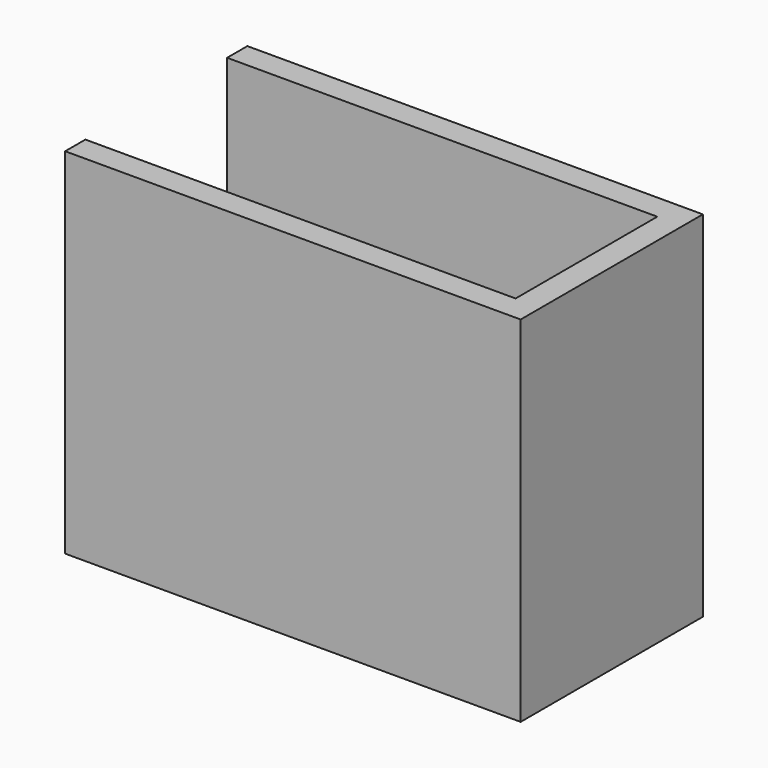
from build123d import *

# Parameters (mm, degrees)
F0_W     = 18
F0_H     = 9
F1_DEPTH = 13
F2_W     = 17
F2_H     = 7
F3_DEPTH = 4
F4_W     = 4
F4_H     = 4
F5_DEPTH = 6
F4_W_2   = 2
F4_H_2   = 7
F6_DEPTH = 9
F8_DEPTH = 1


with BuildPart() as f1:
    # F0 (on Top) → F1 (new body)
    with BuildSketch(Plane.XY):
        Rectangle(F0_W, F0_H)
    extrude(amount=F1_DEPTH)

    # F2 (on face) → F3 (cut)
    with BuildSketch(Plane.XY.offset(13)):
        with Locations((-0.5, 0)):
            Rectangle(F2_W, F2_H)
    extrude(amount=-F3_DEPTH, mode=Mode.SUBTRACT)

    # F4 (on face) → F5 (cut)
    with BuildSketch(Plane(origin=(0, 0, 0), x_dir=(1, 0, 0), z_dir=(0, 0, -1))):
        with Locations((2.1, 0)):
            Rectangle(F4_W, F4_H)
    extrude(amount=-F5_DEPTH, mode=Mode.SUBTRACT)

    # F4 (on face) → F6 (cut)
    with BuildSketch(Plane(origin=(0, 0, 0), x_dir=(1, 0, 0), z_dir=(0, 0, -1))):
        with Locations((-7, 0)):
            Rectangle(F4_W_2, F4_H_2)
    extrude(amount=-F6_DEPTH, mode=Mode.SUBTRACT)

    # F7 (on face) → F8 (join)
    with BuildSketch(Plane.XY.offset(13)):
        Polygon((9, 4.5), (-9, 4.5), (-9, 3.5), (8, 3.5), (8, -3.5), (-9, -3.5), (-9, -4.5), (9, -4.5), align=None)
    extrude(amount=F8_DEPTH)


solid = f1.part
